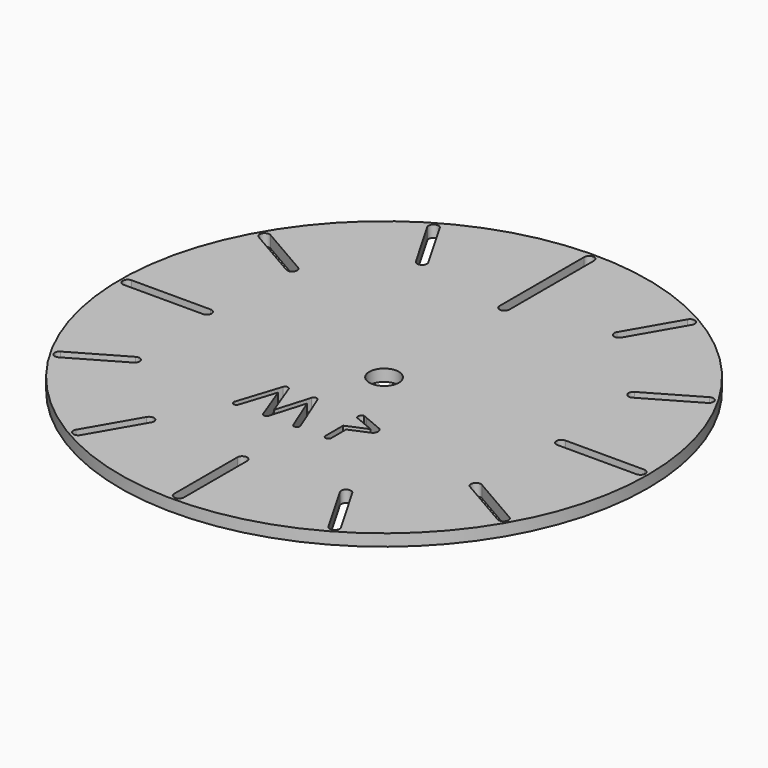
from build123d import *

# Parameters (mm, degrees)
F0_R     = 13.375
F1_DEPTH = 0.6
F2_R     = 0.75
F3_DEPTH = 0.6
F4_R     = 0.35
F5_DEPTH = 2.2


with BuildPart() as f1:
    # F0 (on Top) → F1 (new body)
    with BuildSketch(Plane.XY):
        Circle(F0_R)
        with BuildLine():
            Line((-2.455603, -3.641186), (-3.03039, -5.425586))
            ThreePointArc((-3.03039, -5.425586), (-3.219156, -5.522371), (-3.315941, -5.333605))
            Line((-3.315941, -5.333605), (-2.609415, -3.140224))
            ThreePointArc((-2.609415, -3.140224), (-2.470382, -3.036261), (-2.326336, -3.133157))
            Line((-2.326336, -3.133157), (-1.656765, -4.903756))
            Line((-1.656765, -4.903756), (-1.138734, -3.161121))
            ThreePointArc((-1.138734, -3.161121), (-1.00206, -3.054032), (-0.855862, -3.147702))
            Line((-0.855862, -3.147702), (0.01888, -5.31412))
            ThreePointArc((0.01888, -5.31412), (-0.064049, -5.50937), (-0.2593, -5.426441))
            Line((-0.2593, -5.426441), (-0.973416, -3.657835))
            Line((-0.973416, -3.657835), (-1.487491, -5.387162))
            ThreePointArc((-1.487491, -5.387162), (-1.615532, -5.529433), (-1.78089, -5.433038))
            Line((-1.78089, -5.433038), (-2.455603, -3.641186))
        make_face(mode=Mode.SUBTRACT)
        with BuildLine():
            ThreePointArc((1.625497, -5.364779), (1.475497, -5.514779), (1.325497, -5.364779))
            Line((1.325497, -5.364779), (1.325497, -4.433364))
            Line((1.325497, -4.433364), (1.325497, -4.248424))
            Line((1.325497, -4.248424), (2.363726, -3.807202))
            Line((2.363726, -3.807202), (1.325497, -3.371863))
            ThreePointArc((1.325497, -3.371863), (1.302815, -3.187375), (1.450294, -3.074238))
            Line((1.450294, -3.074238), (1.625497, -3.147702))
            Line((1.625497, -3.147702), (2.61069, -3.560803))
            ThreePointArc((2.61069, -3.560803), (2.724561, -3.786736), (2.612869, -4.013755))
            Line((2.612869, -4.013755), (2.483792, -4.068609))
            Line((2.483792, -4.068609), (1.625497, -4.433364))
            Line((1.625497, -4.433364), (1.625497, -5.364779))
        make_face(mode=Mode.SUBTRACT)
    extrude(amount=F1_DEPTH)

    # F2 (on face) → F3 (cut, through all)
    with BuildSketch(Plane.XY.offset(0.6)):
        with BuildLine():
            ThreePointArc((-11.121827, 6.709865), (-11.463333, 6.618359), (-11.371827, 6.276852))
            Line((-11.371827, 6.276852), (-8.773751, 4.776852))
            ThreePointArc((-8.773751, 4.776852), (-8.432244, 4.868359), (-8.523751, 5.209865))
            Line((-8.523751, 5.209865), (-11.121827, 6.709865))
        make_face()
        with BuildLine():
            Line((-8.986717, 0.25), (-12.986717, 0.25))
            ThreePointArc((-12.986717, 0.25), (-13.236717, 0), (-12.986717, -0.25))
            Line((-12.986717, -0.25), (-8.986717, -0.25))
            ThreePointArc((-8.986717, -0.25), (-8.736717, 0), (-8.986717, 0.25))
        make_face()
        with BuildLine():
            ThreePointArc((-6.276852, 11.371827), (-6.618359, 11.463333), (-6.709865, 11.121827))
            Line((-6.709865, 11.121827), (-5.209865, 8.523751))
            ThreePointArc((-5.209865, 8.523751), (-4.868359, 8.432244), (-4.776852, 8.773751))
            Line((-4.776852, 8.773751), (-6.276852, 11.371827))
        make_face()
        with BuildLine():
            ThreePointArc((-0.25, 8.986717), (-0.176777, 9.163494), (0, 9.236717))
            ThreePointArc((0, 9.236717), (0.176777, 9.163494), (0.25, 8.986717))
            Line((0.25, 8.986717), (0.25, 12.986717))
            ThreePointArc((0.25, 12.986717), (0, 13.236717), (-0.25, 12.986717))
            Line((-0.25, 12.986717), (-0.25, 8.986717))
        make_face()
        with BuildLine():
            ThreePointArc((6.709865, 11.121827), (6.618359, 11.463333), (6.276852, 11.371827))
            Line((6.276852, 11.371827), (4.776852, 8.773751))
            ThreePointArc((4.776852, 8.773751), (4.868359, 8.432244), (5.209865, 8.523751))
            Line((5.209865, 8.523751), (6.709865, 11.121827))
        make_face()
        with BuildLine():
            ThreePointArc((11.371827, 6.276852), (11.463333, 6.618359), (11.121827, 6.709865))
            Line((11.121827, 6.709865), (8.523751, 5.209865))
            ThreePointArc((8.523751, 5.209865), (8.432244, 4.868359), (8.773751, 4.776852))
            Line((8.773751, 4.776852), (11.371827, 6.276852))
        make_face()
        with BuildLine():
            Line((8.986717, -0.25), (12.986717, -0.25))
            ThreePointArc((12.986717, -0.25), (13.236717, 0), (12.986717, 0.25))
            Line((12.986717, 0.25), (8.986717, 0.25))
            ThreePointArc((8.986717, 0.25), (8.736717, 0), (8.986717, -0.25))
        make_face()
        with BuildLine():
            ThreePointArc((11.121827, -6.709865), (11.463333, -6.618359), (11.371827, -6.276852))
            Line((11.371827, -6.276852), (8.773751, -4.776852))
            ThreePointArc((8.773751, -4.776852), (8.432244, -4.868359), (8.523751, -5.209865))
            Line((8.523751, -5.209865), (11.121827, -6.709865))
        make_face()
        with BuildLine():
            Line((-0.25, -8.986717), (-0.25, -12.986717))
            ThreePointArc((-0.25, -12.986717), (0, -13.236717), (0.25, -12.986717))
            Line((0.25, -12.986717), (0.25, -8.986717))
            ThreePointArc((0.25, -8.986717), (0, -8.736717), (-0.25, -8.986717))
        make_face()
        with BuildLine():
            ThreePointArc((6.276852, -11.371827), (6.618359, -11.463333), (6.709865, -11.121827))
            Line((6.709865, -11.121827), (5.209865, -8.523751))
            ThreePointArc((5.209865, -8.523751), (4.868359, -8.432244), (4.776852, -8.773751))
            Line((4.776852, -8.773751), (6.276852, -11.371827))
        make_face()
        with BuildLine():
            ThreePointArc((-6.709865, -11.121827), (-6.618359, -11.463333), (-6.276852, -11.371827))
            Line((-6.276852, -11.371827), (-4.776852, -8.773751))
            ThreePointArc((-4.776852, -8.773751), (-4.868359, -8.432244), (-5.209865, -8.523751))
            Line((-5.209865, -8.523751), (-6.709865, -11.121827))
        make_face()
        with BuildLine():
            ThreePointArc((-11.371827, -6.276852), (-11.463333, -6.618359), (-11.121827, -6.709865))
            Line((-11.121827, -6.709865), (-8.523751, -5.209865))
            ThreePointArc((-8.523751, -5.209865), (-8.432244, -4.868359), (-8.773751, -4.776852))
            Line((-8.773751, -4.776852), (-11.371827, -6.276852))
        make_face()
        Circle(F2_R)
        with BuildLine():
            ThreePointArc((0, 8.736717), (-0.176777, 8.80994), (-0.25, 8.986717))
            Line((-0.25, 8.986717), (-0.25, 7.62564))
            ThreePointArc((-0.25, 7.62564), (0, 7.37564), (0.25, 7.62564))
            Line((0.25, 7.62564), (0.25, 8.986717))
            ThreePointArc((0.25, 8.986717), (0.176777, 8.80994), (0, 8.736717))
        make_face()
        with BuildLine():
            Line((0, 8.986717), (0, 9.236717))
            ThreePointArc((0, 9.236717), (-0.176777, 9.163494), (-0.25, 8.986717))
            ThreePointArc((-0.25, 8.986717), (-0.176777, 8.80994), (0, 8.736717))
            Line((0, 8.736717), (0, 8.986717))
        make_face()
        with BuildLine():
            ThreePointArc((0.25, 8.986717), (0.176777, 9.163494), (0, 9.236717))
            Line((0, 9.236717), (0, 8.986717))
            Line((0, 8.986717), (0, 8.736717))
            ThreePointArc((0, 8.736717), (0.176777, 8.80994), (0.25, 8.986717))
        make_face()
    extrude(amount=-F3_DEPTH, mode=Mode.SUBTRACT)

    # F4 (on face) → F5 (join)
    with BuildSketch(Plane.XY.offset(0.6)):
        with Locations((-1.9, 8.234)):
            Circle(F4_R)
        with Locations((-3, -7.9)):
            Circle(F4_R)
    extrude(amount=-F5_DEPTH)


solid = f1.part
